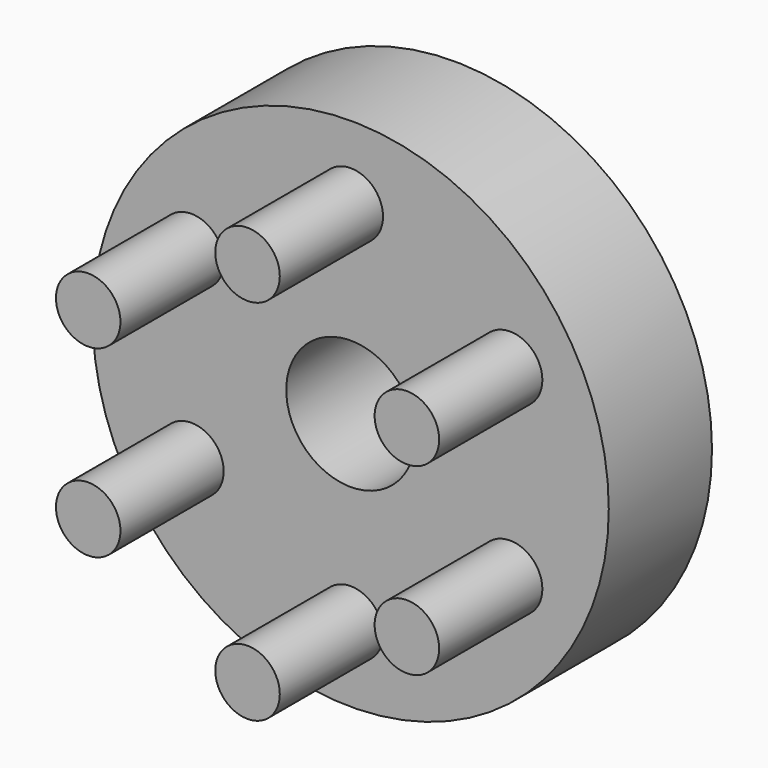
from build123d import *

# Parameters (mm, degrees)
F0_R     = 25.4
F1_DEPTH = 12.7
F2_R     = 6.35
F3_DEPTH = 50.8
F4_R     = 3.175
F5_DEPTH = 12.7


with BuildPart() as f1:
    # F0 (on Front) → F1 (new body)
    with BuildSketch(Plane.XZ):
        Circle(F0_R)
    extrude(amount=F1_DEPTH)

    # F2 (on face) → F3 (cut)
    with BuildSketch(Plane.XZ.offset(12.7)):
        Circle(F2_R)
    extrude(amount=-F3_DEPTH, mode=Mode.SUBTRACT)

    # F4 (on face) → F5 (join)
    with BuildSketch(Plane.XZ.offset(12.7)):
        with Locations((0, 18.11257)):
            Circle(F4_R)
        with Locations((-15.685946, 9.056285)):
            Circle(F4_R)
        with Locations((-15.685946, -9.056285)):
            Circle(F4_R)
        with Locations((0, -18.11257)):
            Circle(F4_R)
        with Locations((15.685946, -9.056285)):
            Circle(F4_R)
        with Locations((15.685946, 9.056285)):
            Circle(F4_R)
    extrude(amount=F5_DEPTH)


solid = f1.part
